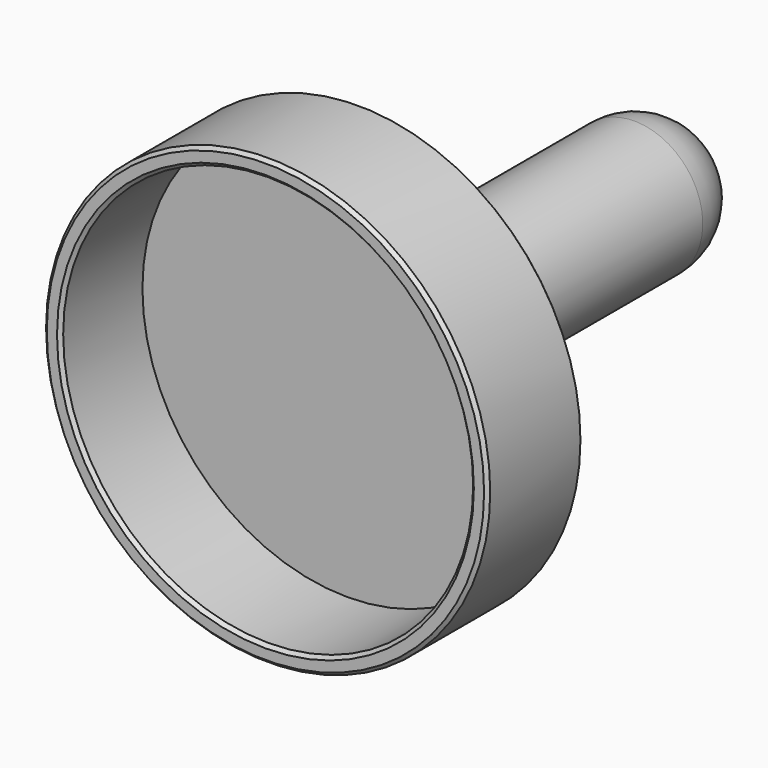
from build123d import *

# Parameters (mm, degrees)
F0_R     = 65
F1_DEPTH = 5
F2_R     = 65
F2_R_2   = 60
F3_DEPTH = 30
F4_R     = 20
F5_DEPTH = 120
F6_R     = 20
F7_SIZE  = 1


with BuildPart() as f1:
    # F0 (on Front) → F1 (new body)
    with BuildSketch(Plane.XZ):
        Circle(F0_R)
    extrude(amount=-F1_DEPTH)

    # F2 (on face) → F3 (join)
    with BuildSketch(Plane.XZ):
        Circle(F2_R)
        Circle(F2_R_2, mode=Mode.SUBTRACT)
    extrude(amount=F3_DEPTH)

    # F4 (on face) → F5 (join)
    with BuildSketch(Plane(origin=(0, 5, 0), x_dir=(-1, 0, 0), z_dir=(0, 1, 0))):
        Circle(F4_R)
    extrude(amount=F5_DEPTH)

    # F6
    f6_edges = [f1.edges().sort_by_distance(p)[0] for p in [
        (20, 125, 0),
    ]]
    fillet(f6_edges, radius=F6_R)

    # F7
    f7_edges = [f1.edges().sort_by_distance(p)[0] for p in [
        (-65, 5, 0),
        (-65, -30, 0),
        (-60, -30, 0),
    ]]
    chamfer(f7_edges, length=F7_SIZE)


solid = f1.part
